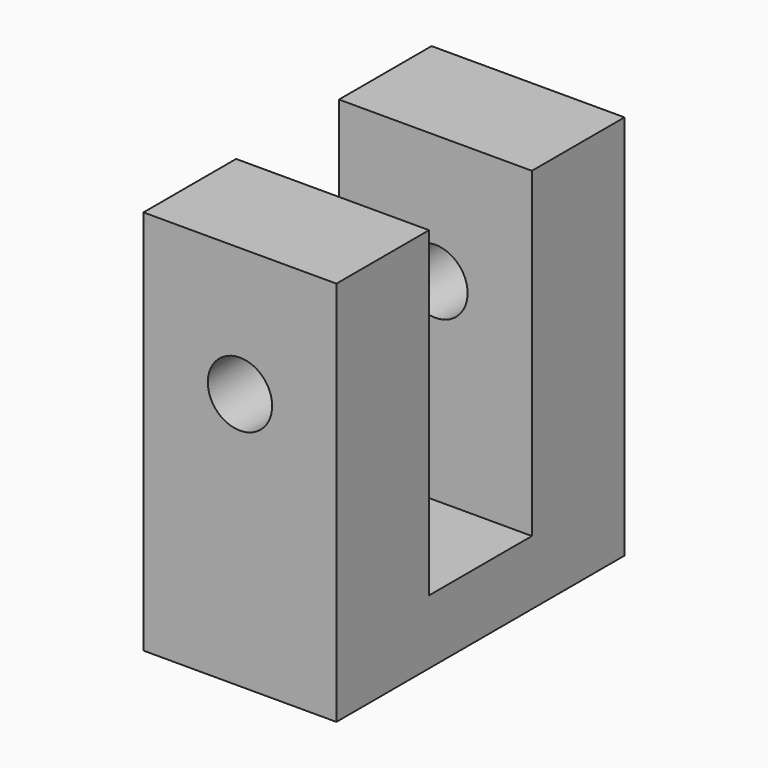
from build123d import *

# Parameters (mm, degrees)
F1_DEPTH = 19.05
F3_D     = 6.35
F5_D     = 6.35
F5_DEPTH = 12.7
F5_TIP   = 1.9077324654


with BuildPart() as f1:
    # F0 (on Right) → F1 (new body)
    with BuildSketch(Plane.YZ):
        Polygon((0, 38.1), (0, 0), (35.56, 0), (35.56, 38.1), (24.13, 38.1), (24.13, 6.35), (11.43, 6.35), (11.43, 38.1), align=None)
    extrude(amount=F1_DEPTH)

    # F3 (through all)
    with Locations(Plane(origin=(0, 35.56, 0), x_dir=(-1, 0, 0), z_dir=(0, 1, 0))):
        with Locations((-9.5250019804, 25.4)):
            Hole(F3_D / 2)

    # F5
    with Locations(Plane(origin=(0, 0, 0), x_dir=(1, 0, 0), z_dir=(0, 0, -1))):
        with Locations((6.35, -5.08), (6.35, -30.48)):
            Hole(F5_D / 2, depth=F5_DEPTH)
            with Locations((0, 0, -(F5_DEPTH + F5_TIP / 2))):  # 118° drill point
                Cone(0, F5_D / 2, F5_TIP, mode=Mode.SUBTRACT)


solid = f1.part
